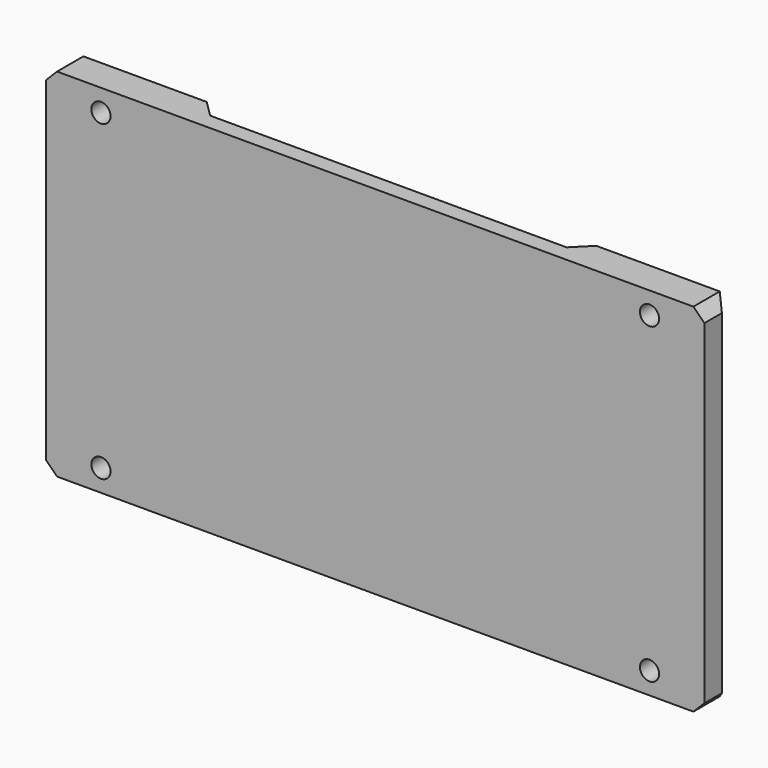
from build123d import *

# Parameters (mm, degrees)
SKETCH_W        = 120
SKETCH_H        = 65
PAD007_DEPTH    = 6
POCKET_DEPTH    = 65.001
CHAMFER009_SIZE = 2
SKETCH055_R     = 1.75
POCKET040_DEPTH = 6.001
SKETCH059_R     = 2.8
POCKET041_DEPTH = 2


with BuildPart() as part:
    # Sketch → Pad007 (new body)
    with BuildSketch(Plane.XZ):
        Rectangle(SKETCH_W, SKETCH_H)
    extrude(amount=PAD007_DEPTH)

    # Sketch054 (on Face1 of Pad007) → Pocket (cut, through all)
    with BuildSketch(Plane(origin=(0, 0, 32.5), x_dir=(-1, 0, 0), z_dir=(0, 0, 1))):
        Polygon((-73.60865, -3.669498), (-50.80994, -15.077229), (-50.577229, -15.077229), (-32.5, 3), (32.5, 3), (50.577229, -15.077229), (50.80994, -15.077229), (73.60865, -3.669498), (73.60865, -24.458851), (-87.275108, -33.737259), align=None)
    extrude(amount=-POCKET_DEPTH, mode=Mode.SUBTRACT)

    # Chamfer009
    chamfer009_edges = [part.edges().sort_by_distance(p)[0] for p in [
        (60, -3, -32.5),
        (60, -3, 32.5),
        (60, 0, 0),
        (-60, -3, -32.5),
        (-60, 0, 0),
        (-60, -3, 32.5),
    ]]
    chamfer(chamfer009_edges, length=CHAMFER009_SIZE)

    # Sketch055 → Pocket040 (cut, through all)
    with BuildSketch(Plane(origin=(0, 0, 0), x_dir=(1, 0, 0), z_dir=(0, 1, 0))):
        with Locations((-50, 28.5)):
            Circle(SKETCH055_R)
        with Locations((-50, -28.5)):
            Circle(SKETCH055_R)
        with Locations((50, 28.5)):
            Circle(SKETCH055_R)
        with Locations((50, -28.5)):
            Circle(SKETCH055_R)
    extrude(amount=-POCKET040_DEPTH, mode=Mode.SUBTRACT)

    # Sketch059 (on Face2 of Pocket040) → Pocket041 (cut)
    with BuildSketch(Plane(origin=(0, 0, 0), x_dir=(1, 0, 0), z_dir=(0, 1, 0))):
        with Locations((-50, 28.5)):
            Circle(SKETCH059_R)
        with Locations((-50, -28.5)):
            Circle(SKETCH059_R)
        with Locations((50, 28.5)):
            Circle(SKETCH059_R)
        with Locations((50, -28.5)):
            Circle(SKETCH059_R)
    extrude(amount=-POCKET041_DEPTH, mode=Mode.SUBTRACT)


with BuildPart() as part_1:
    # Body003 placement: moved
    add(part.part.moved(Location((0, 14.15, 0))))


solid = part_1.part
